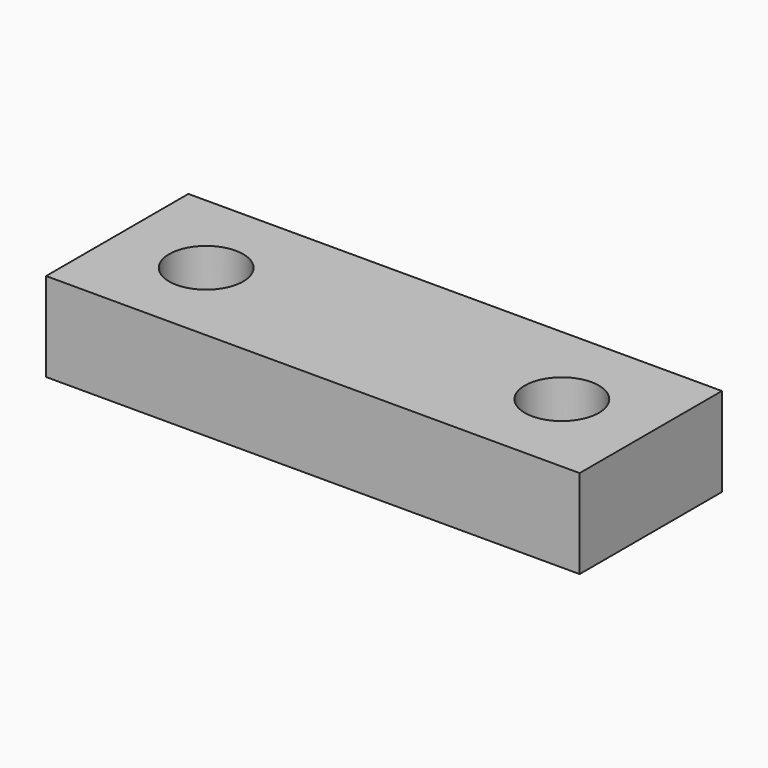
from build123d import *

# Parameters (mm, degrees)
F0_W     = 57.15
F0_H     = 9.525
F1_DEPTH = 9.525
F3_D     = 7.9375


with BuildPart() as f1:
    # F0 (on Front) → F1 (new body, symmetric)
    with BuildSketch(Plane.XZ):
        Rectangle(F0_W, F0_H)
    extrude(amount=F1_DEPTH, both=True)

    # F3 (through all)
    with Locations(Plane.XY.offset(4.7625)):
        with Locations((19.05, 0), (-19.05, 0)):
            Hole(F3_D / 2)


solid = f1.part
